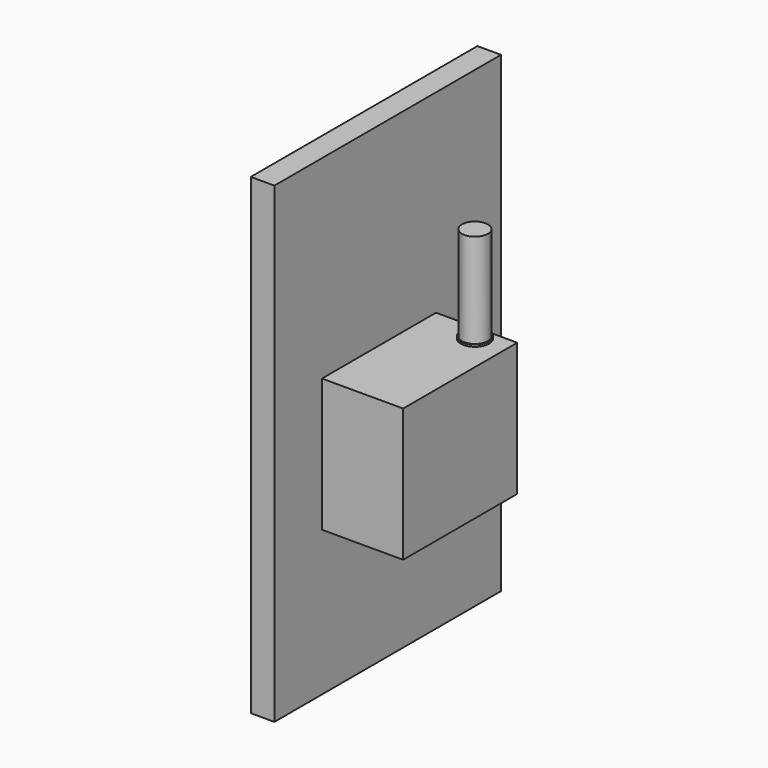
from build123d import *

# Parameters (mm, degrees)
F0_W     = 151
F0_H     = 141
F1_DEPTH = 86
F2_R     = 15
F3_DEPTH = 2
F4_R     = 13.688921
F5_DEPTH = 100
F6_W     = 25
F6_H     = 300
F7_DEPTH = 250


with BuildPart() as f1:
    # F0 (on Right) → F1 (new body)
    with BuildSketch(Plane.YZ):
        with Locations((13.150447, -0.55588)):
            Rectangle(F0_W, F0_H)
    extrude(amount=F1_DEPTH)

    # F2 (on face) → F3 (join)
    with BuildSketch(Plane.XY.offset(69.94412)):
        with Locations((54, 72.650447)):
            Circle(F2_R)
    extrude(amount=F3_DEPTH)

    # F4 (on face) → F5 (join)
    with BuildSketch(Plane.XY.offset(71.94412)):
        with Locations((54, 72.650447)):
            Circle(F4_R)
    extrude(amount=F5_DEPTH)


with BuildPart() as f7:
    # F6 (on Top) → F7 (new body, symmetric)
    with BuildSketch(Plane.XY):
        with Locations((-42.973155, 62.780213)):
            Rectangle(F6_W, F6_H)
    extrude(amount=F7_DEPTH, both=True)


solid = Compound([f1.part, f7.part])
